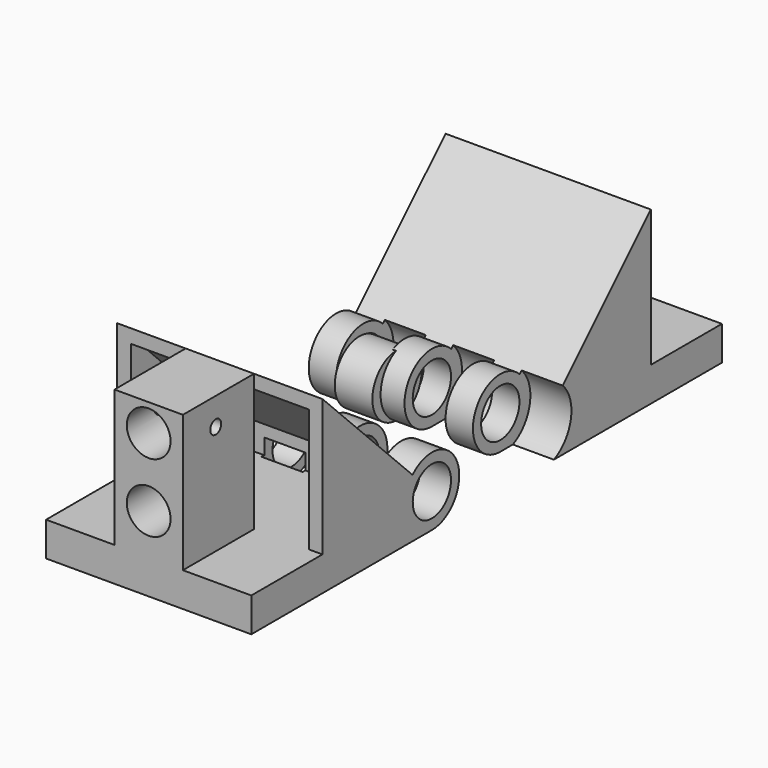
from build123d import *

# Parameters (mm, degrees)
CYLINDER005_R           = 4.5
CYLINDER005_DEPTH       = 5.5
CYLINDER005_PITCH_ANGLE = 90
CYLINDER007_R           = 2
CYLINDER007_DEPTH       = 10
CYLINDER004_R           = 5.5
CYLINDER004_DEPTH       = 6
CYLINDER004_PITCH_ANGLE = 90
ARRAY_X_COUNT           = 4
ARRAY_X_PITCH           = 10
CYLINDER001_R           = 3.5
CYLINDER001_DEPTH       = 30
CYLINDER001_PITCH_ANGLE = 90
BOX002_W                = 30
BOX002_H                = 33
BOX002_DEPTH            = 5
CYLINDER_R              = 5
CYLINDER_DEPTH          = 30
CYLINDER_PITCH_ANGLE    = 90
BOX004_W                = 30
BOX004_H                = 34
BOX004_DEPTH            = 15
BOX004_ROLL_ANGLE       = 45
BOX003_W                = 26
BOX003_H                = 20
BOX003_DEPTH            = 18
BOX001_W                = 30
BOX001_H                = 34
BOX001_DEPTH            = 15
BOX001_ROLL_ANGLE       = 45
BOX_W                   = 30
BOX_H                   = 20
BOX_DEPTH               = 20
CYLINDER009_R           = 3.2
CYLINDER009_DEPTH       = 22
CYLINDER009_ROLL_ANGLE  = 90
CYLINDER010_R           = 1
CYLINDER010_DEPTH       = 22
CYLINDER010_PITCH_ANGLE = 90
CYLINDER008_R           = 3.2
CYLINDER008_DEPTH       = 22
CYLINDER008_ROLL_ANGLE  = 90
BOX010_W                = 10
BOX010_H                = 13
BOX010_DEPTH            = 21
CYLINDER006_R           = 5.5
CYLINDER006_DEPTH       = 6
CYLINDER006_PITCH_ANGLE = 90
ARRAY001_X_COUNT        = 3
ARRAY001_X_PITCH        = 10
CYLINDER003_R           = 3.5
CYLINDER003_DEPTH       = 30
CYLINDER003_PITCH_ANGLE = 90
BOX007_W                = 30
BOX007_H                = 33
BOX007_DEPTH            = 5
CYLINDER002_R           = 5
CYLINDER002_DEPTH       = 30
CYLINDER002_PITCH_ANGLE = 90
BOX009_W                = 30
BOX009_H                = 34
BOX009_DEPTH            = 15
BOX009_ROLL_ANGLE       = 45
BOX008_W                = 26
BOX008_H                = 20
BOX008_DEPTH            = 18
BOX006_W                = 30
BOX006_H                = 34
BOX006_DEPTH            = 15
BOX006_ROLL_ANGLE       = 45
BOX005_W                = 30
BOX005_H                = 20
BOX005_DEPTH            = 20


with BuildPart() as eje_out003:
    # Cylinder005 → Cylinder005 (new body)
    with BuildSketch(Plane.XY):
        Circle(CYLINDER005_R)
    extrude(amount=CYLINDER005_DEPTH)


with BuildPart() as eje_out003_1:
    # Cylinder005 pitch: moved
    add(eje_out003.part.rotate(Axis((0, 0, 0), (0, 1, 0)), CYLINDER005_PITCH_ANGLE))


with BuildPart() as eje_out003_2:
    # Cylinder005 placement: moved
    add(eje_out003_1.part.moved(Location((-10, -7, -10))))


with BuildPart() as tornillo:
    # Cylinder007 → Cylinder007 (new body)
    with BuildSketch(Plane(origin=(0, 22, -16), x_dir=(1, 0, 0), z_dir=(0, 0, 1))):
        Circle(CYLINDER007_R)
    extrude(amount=CYLINDER007_DEPTH)


with BuildPart() as array:
    # Cylinder004 → Cylinder004 (new body)
    with BuildSketch(Plane.XY):
        Circle(CYLINDER004_R)
    extrude(amount=CYLINDER004_DEPTH)


with BuildPart() as array_1:
    # Cylinder004 pitch: moved
    add(array.part.rotate(Axis((0, 0, 0), (0, 1, 0)), CYLINDER004_PITCH_ANGLE))


with BuildPart() as array_2:
    # Cylinder004 placement: moved
    add(array_1.part.moved(Location((-11, -5, -10))))

    # Array X: Array ×4


with BuildPart() as array_3:
    add(array_2.part)
    with Locations(*[(i * ARRAY_X_PITCH, 0, 0) for i in range(1, ARRAY_X_COUNT)]):
        add(array_2.part)


with BuildPart() as eje_int:
    # Cylinder001 → Cylinder001 (new body)
    with BuildSketch(Plane.XY):
        Circle(CYLINDER001_R)
    extrude(amount=CYLINDER001_DEPTH)


with BuildPart() as eje_int_1:
    # Cylinder001 pitch: moved
    add(eje_int.part.rotate(Axis((0, 0, 0), (0, 1, 0)), CYLINDER001_PITCH_ANGLE))


with BuildPart() as eje_int_2:
    # Cylinder001 placement: moved
    add(eje_int_1.part.moved(Location((-15, -5, -10))))


with BuildPart() as base:
    # Box002 → Box002 (new body)
    with BuildSketch(Plane(origin=(-15, -5, -15), x_dir=(1, 0, 0), z_dir=(0, 0, 1))):
        with Locations((15, 16.5)):
            Rectangle(BOX002_W, BOX002_H)
    extrude(amount=BOX002_DEPTH)


with BuildPart() as eje_out:
    # Cylinder → Cylinder (new body)
    with BuildSketch(Plane.XY):
        Circle(CYLINDER_R)
    extrude(amount=CYLINDER_DEPTH)


with BuildPart() as eje_out_1:
    # Cylinder pitch: moved
    add(eje_out.part.rotate(Axis((0, 0, 0), (0, 1, 0)), CYLINDER_PITCH_ANGLE))


with BuildPart() as eje_out_2:
    # Cylinder placement: moved
    add(eje_out_1.part.moved(Location((-15, -5, -10))))


with BuildPart() as cube_int_cut:
    # Box004 → Box004 (new body)
    with BuildSketch(Plane.XY):
        with Locations((15, 17)):
            Rectangle(BOX004_W, BOX004_H)
    extrude(amount=BOX004_DEPTH)


with BuildPart() as cube_int_cut_1:
    # Box004 roll: moved
    add(cube_int_cut.part.rotate(Axis((0, 0, 0), (1, 0, 0)), BOX004_ROLL_ANGLE))


with BuildPart() as cube_int_cut_2:
    # Box004 placement: moved
    add(cube_int_cut_1.part.moved(Location((-15, -4, -10))))


with BuildPart() as cut001:
    # Box003 → Box003 (new body)
    with BuildSketch(Plane(origin=(-13, 1, -10), x_dir=(1, 0, 0), z_dir=(0, 0, 1))):
        with Locations((13, 10)):
            Rectangle(BOX003_W, BOX003_H)
    extrude(amount=BOX003_DEPTH)

    # Cut001: cut Cube_int_cut
    add(cube_int_cut_2.part, mode=Mode.SUBTRACT)


with BuildPart() as cube_out_cut:
    # Box001 → Box001 (new body)
    with BuildSketch(Plane.XY):
        with Locations((15, 17)):
            Rectangle(BOX001_W, BOX001_H)
    extrude(amount=BOX001_DEPTH)


with BuildPart() as cube_out_cut_1:
    # Box001 roll: moved
    add(cube_out_cut.part.rotate(Axis((0, 0, 0), (1, 0, 0)), BOX001_ROLL_ANGLE))


with BuildPart() as cube_out_cut_2:
    # Box001 placement: moved
    add(cube_out_cut_1.part.moved(Location((-15, -5, -10))))


with BuildPart() as cut010:
    # Box → Box (new body)
    with BuildSketch(Plane(origin=(-15, -5, -10), x_dir=(1, 0, 0), z_dir=(0, 0, 1))):
        with Locations((15, 10)):
            Rectangle(BOX_W, BOX_H)
    extrude(amount=BOX_DEPTH)

    # Cut: cut Cube_out_cut
    add(cube_out_cut_2.part, mode=Mode.SUBTRACT)

    # Cut002: cut Cut001
    add(cut001.part, mode=Mode.SUBTRACT)

    # Fusion: union base, eje_out
    add(base.part)
    add(eje_out_2.part)

    # Cut003: cut eje_int
    add(eje_int_2.part, mode=Mode.SUBTRACT)

    # Cut008: cut Array
    add(array_3.part, mode=Mode.SUBTRACT)

    # Cut010: cut tornillo
    add(tornillo.part, mode=Mode.SUBTRACT)


with BuildPart() as cylinder002:
    # Cylinder009 → Cylinder009 (new body)
    with BuildSketch(Plane.XY):
        Circle(CYLINDER009_R)
    extrude(amount=CYLINDER009_DEPTH)


with BuildPart() as cylinder002_1:
    # Cylinder009 roll: moved
    add(cylinder002.part.rotate(Axis((0, 0, 0), (1, 0, 0)), CYLINDER009_ROLL_ANGLE))


with BuildPart() as cylinder002_2:
    # Cylinder009 placement: moved
    add(cylinder002_1.part.moved(Location((0, -44, -4))))


with BuildPart() as cylinder003:
    # Cylinder010 → Cylinder010 (new body)
    with BuildSketch(Plane.XY):
        Circle(CYLINDER010_R)
    extrude(amount=CYLINDER010_DEPTH)


with BuildPart() as cylinder003_1:
    # Cylinder010 pitch: moved
    add(cylinder003.part.rotate(Axis((0, 0, 0), (0, 1, 0)), CYLINDER010_PITCH_ANGLE))


with BuildPart() as cylinder003_2:
    # Cylinder010 placement: moved
    add(cylinder003_1.part.moved(Location((-12, -52, 6))))


with BuildPart() as fusion002:
    # Cylinder008 → Cylinder008 (new body)
    with BuildSketch(Plane.XY):
        Circle(CYLINDER008_R)
    extrude(amount=CYLINDER008_DEPTH)


with BuildPart() as fusion002_1:
    # Cylinder008 roll: moved
    add(fusion002.part.rotate(Axis((0, 0, 0), (1, 0, 0)), CYLINDER008_ROLL_ANGLE))


with BuildPart() as fusion002_2:
    # Cylinder008 placement: moved
    add(fusion002_1.part.moved(Location((0, -44, 6))))

    # Fusion002: union Cylinder002, Cylinder003
    add(cylinder002_2.part)
    add(cylinder003_2.part)


with BuildPart() as cube:
    # Box010 → Box010 (new body)
    with BuildSketch(Plane(origin=(-5, -58, -11), x_dir=(1, 0, 0), z_dir=(0, 0, 1))):
        with Locations((5, 6.5)):
            Rectangle(BOX010_W, BOX010_H)
    extrude(amount=BOX010_DEPTH)


with BuildPart() as array001:
    # Cylinder006 → Cylinder006 (new body)
    with BuildSketch(Plane.XY):
        Circle(CYLINDER006_R)
    extrude(amount=CYLINDER006_DEPTH)


with BuildPart() as array001_1:
    # Cylinder006 pitch: moved
    add(array001.part.rotate(Axis((0, 0, 0), (0, 1, 0)), CYLINDER006_PITCH_ANGLE))


with BuildPart() as array001_2:
    # Cylinder006 placement: moved
    add(array001_1.part.moved(Location((-15.5, -25, -10))))

    # Array001 X: Array001 ×3


with BuildPart() as array001_3:
    add(array001_2.part)
    with Locations(*[(i * ARRAY001_X_PITCH, 0, 0) for i in range(1, ARRAY001_X_COUNT)]):
        add(array001_2.part)


with BuildPart() as eje_int001:
    # Cylinder003 → Cylinder003 (new body)
    with BuildSketch(Plane.XY):
        Circle(CYLINDER003_R)
    extrude(amount=CYLINDER003_DEPTH)


with BuildPart() as eje_int001_1:
    # Cylinder003 pitch: moved
    add(eje_int001.part.rotate(Axis((0, 0, 0), (0, 1, 0)), CYLINDER003_PITCH_ANGLE))


with BuildPart() as eje_int001_2:
    # Cylinder003 placement: moved
    add(eje_int001_1.part.moved(Location((-15, -5, -10))))


with BuildPart() as base001:
    # Box007 → Box007 (new body)
    with BuildSketch(Plane(origin=(-15, -5, -15), x_dir=(1, 0, 0), z_dir=(0, 0, 1))):
        with Locations((15, 16.5)):
            Rectangle(BOX007_W, BOX007_H)
    extrude(amount=BOX007_DEPTH)


with BuildPart() as eje_out001:
    # Cylinder002 → Cylinder002 (new body)
    with BuildSketch(Plane.XY):
        Circle(CYLINDER002_R)
    extrude(amount=CYLINDER002_DEPTH)


with BuildPart() as eje_out001_1:
    # Cylinder002 pitch: moved
    add(eje_out001.part.rotate(Axis((0, 0, 0), (0, 1, 0)), CYLINDER002_PITCH_ANGLE))


with BuildPart() as eje_out001_2:
    # Cylinder002 placement: moved
    add(eje_out001_1.part.moved(Location((-15, -5, -10))))


with BuildPart() as cube_int_cut001:
    # Box009 → Box009 (new body)
    with BuildSketch(Plane.XY):
        with Locations((15, 17)):
            Rectangle(BOX009_W, BOX009_H)
    extrude(amount=BOX009_DEPTH)


with BuildPart() as cube_int_cut001_1:
    # Box009 roll: moved
    add(cube_int_cut001.part.rotate(Axis((0, 0, 0), (1, 0, 0)), BOX009_ROLL_ANGLE))


with BuildPart() as cube_int_cut001_2:
    # Box009 placement: moved
    add(cube_int_cut001_1.part.moved(Location((-15, -4, -10))))


with BuildPart() as cut005:
    # Box008 → Box008 (new body)
    with BuildSketch(Plane(origin=(-13, 0, -10), x_dir=(1, 0, 0), z_dir=(0, 0, 1))):
        with Locations((13, 10)):
            Rectangle(BOX008_W, BOX008_H)
    extrude(amount=BOX008_DEPTH)

    # Cut005: cut Cube_int_cut001
    add(cube_int_cut001_2.part, mode=Mode.SUBTRACT)


with BuildPart() as cube_out_cut001:
    # Box006 → Box006 (new body)
    with BuildSketch(Plane.XY):
        with Locations((15, 17)):
            Rectangle(BOX006_W, BOX006_H)
    extrude(amount=BOX006_DEPTH)


with BuildPart() as cube_out_cut001_1:
    # Box006 roll: moved
    add(cube_out_cut001.part.rotate(Axis((0, 0, 0), (1, 0, 0)), BOX006_ROLL_ANGLE))


with BuildPart() as cube_out_cut001_2:
    # Box006 placement: moved
    add(cube_out_cut001_1.part.moved(Location((-15, -5, -10))))


with BuildPart() as cut007:
    # Box005 → Box005 (new body)
    with BuildSketch(Plane(origin=(-15, -5, -10), x_dir=(1, 0, 0), z_dir=(0, 0, 1))):
        with Locations((15, 10)):
            Rectangle(BOX005_W, BOX005_H)
    extrude(amount=BOX005_DEPTH)

    # Cut004: cut Cube_out_cut001
    add(cube_out_cut001_2.part, mode=Mode.SUBTRACT)

    # Cut006: cut Cut005
    add(cut005.part, mode=Mode.SUBTRACT)

    # Fusion001: union base001, eje_out001
    add(base001.part)
    add(eje_out001_2.part)

    # Cut007: cut eje_int001
    add(eje_int001_2.part, mode=Mode.SUBTRACT)


with BuildPart() as cut011:
    # Part__Mirroring: instance of Cut007
    add(cut007.part.mirror(Plane(origin=(0, -15, 0), x_dir=(1, 0, 0), z_dir=(0, 1, 0))))

    # Cut009: cut Array001
    add(array001_3.part, mode=Mode.SUBTRACT)

    # Fusion003: union Cube
    add(cube.part)

    # Cut011: cut Fusion002
    add(fusion002_2.part, mode=Mode.SUBTRACT)


solid = Compound([eje_out003_2.part, cut010.part, cut011.part])
